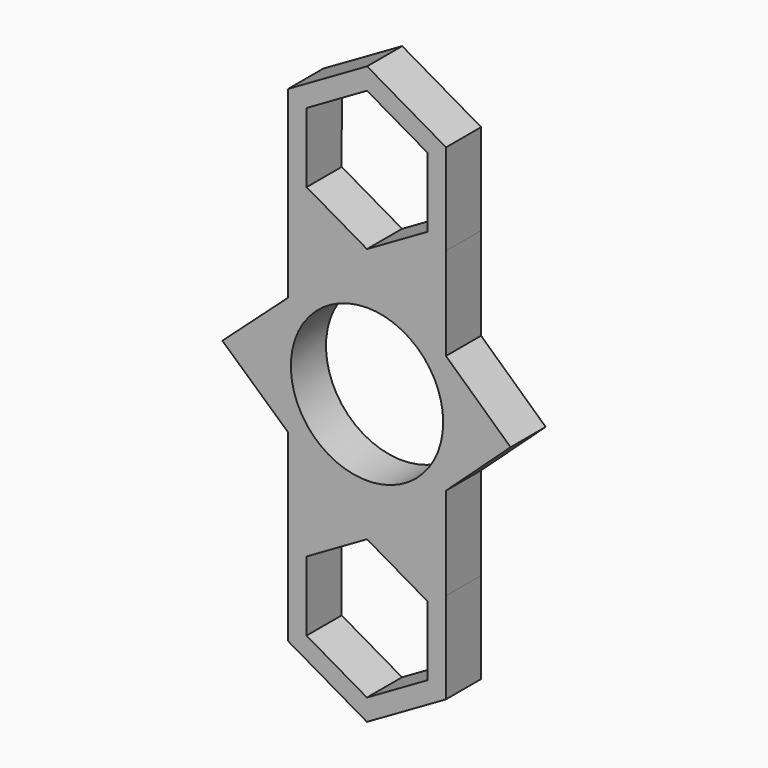
from build123d import *

# Parameters (mm, degrees)
F1_DEPTH = 6.35


with BuildPart() as f1:
    # F0 (on Front) → F1 (new body)
    with BuildSketch(Plane.XZ):
        with BuildLine():
            ThreePointArc((0, 11.0236), (-7.794862, -7.794862), (11.0236, 0))
            ThreePointArc((11.0236, 0), (7.794862, 7.794862), (0, 11.0236))
        make_face()
        with BuildLine():
            ThreePointArc((11.424853, 8.579359), (6.385729, 12.781045), (0, 14.2875))
            ThreePointArc((0, 14.2875), (-6.393397, 12.777211), (-11.435141, 8.565642))
            ThreePointArc((-11.435141, 8.565642), (-14.2875, 0), (-11.435141, -8.565642))
            ThreePointArc((-11.435141, -8.565642), (-0.008573, -14.287497), (11.424853, -8.579359))
            ThreePointArc((11.424853, -8.579359), (13.552956, -4.522172), (14.2875, 0))
            ThreePointArc((14.2875, 0), (13.552956, 4.522172), (11.424853, 8.579359))
        make_face()
        with BuildLine():
            ThreePointArc((0, 11.0236), (7.794862, 7.794862), (11.0236, 0))
            ThreePointArc((11.0236, 0), (-7.794862, -7.794862), (0, 11.0236))
        make_face(mode=Mode.SUBTRACT)
        with BuildLine():
            ThreePointArc((-11.435141, 8.565642), (-6.393397, 12.777211), (0, 14.2875))
            Line((0, 14.2875), (0, 15.382706))
            Line((0, 15.382706), (-0.010288, 15.376777))
            Line((-0.010288, 15.376777), (-11.435141, 21.984798))
            Line((-11.435141, 21.984798), (-11.435141, 8.565642))
        make_face()
        with BuildLine():
            Line((0, 15.382706), (0, 14.2875))
            ThreePointArc((0, 14.2875), (6.385729, 12.781045), (11.424853, 8.579359))
            Line((11.424853, 8.579359), (11.424853, 21.966979))
            Line((11.424853, 21.966979), (0, 15.382706))
        make_face()
        with BuildLine():
            Line((20.778073, 0), (11.424853, 8.579359))
            ThreePointArc((11.424853, 8.579359), (13.552956, 4.522172), (14.2875, 0))
            ThreePointArc((14.2875, 0), (13.552956, -4.522172), (11.424853, -8.579359))
            Line((11.424853, -8.579359), (20.778073, 0))
        make_face()
        with BuildLine():
            ThreePointArc((-11.435141, -8.565642), (-14.2875, 0), (-11.435141, 8.565642))
            Line((-11.435141, 8.565642), (-20.943042, 0))
            Line((-20.943042, 0), (-11.435141, -8.565642))
        make_face()
        Polygon((-0.005462, 18.48569), (0, 18.48884), (8.734868, 23.525615), (8.74033, 33.614925), (0.005462, 38.66431), (-8.734868, 33.624385), (-8.74033, 23.535075), align=None)
        Polygon((-0.010288, 15.376777), (0, 15.382706), (11.424853, 21.966979), (11.435141, 35.165202), (0.010288, 41.773223), (-11.424853, 35.183021), (-11.435141, 21.984798), align=None)
        Polygon((8.734868, 23.525615), (0, 18.48884), (-0.005462, 18.48569), (-8.74033, 23.535075), (-8.734868, 33.624385), (0.005462, 38.66431), (8.74033, 33.614925), align=None, mode=Mode.SUBTRACT)
        with BuildLine():
            ThreePointArc((11.424853, -8.579359), (-0.008573, -14.287497), (-11.435141, -8.565642))
            Line((-11.435141, -8.565642), (-11.435141, -21.965788))
            Line((-11.435141, -21.965788), (0, -15.375586))
            Line((0, -15.375586), (11.424853, -21.983607))
            Line((11.424853, -21.983607), (11.424853, -8.579359))
        make_face()
        Polygon((0, -15.375586), (-11.435141, -21.965788), (-11.445428, -35.164011), (-0.020576, -41.772032), (11.414565, -35.181831), (11.424853, -21.983607), align=None)
        Polygon((-0.004826, -18.484499), (8.730042, -23.533885), (8.72458, -33.623195), (-0.01575, -38.663119), (-8.750618, -33.613734), (-8.745156, -23.524424), align=None, mode=Mode.SUBTRACT)
    extrude(amount=F1_DEPTH)


solid = f1.part
